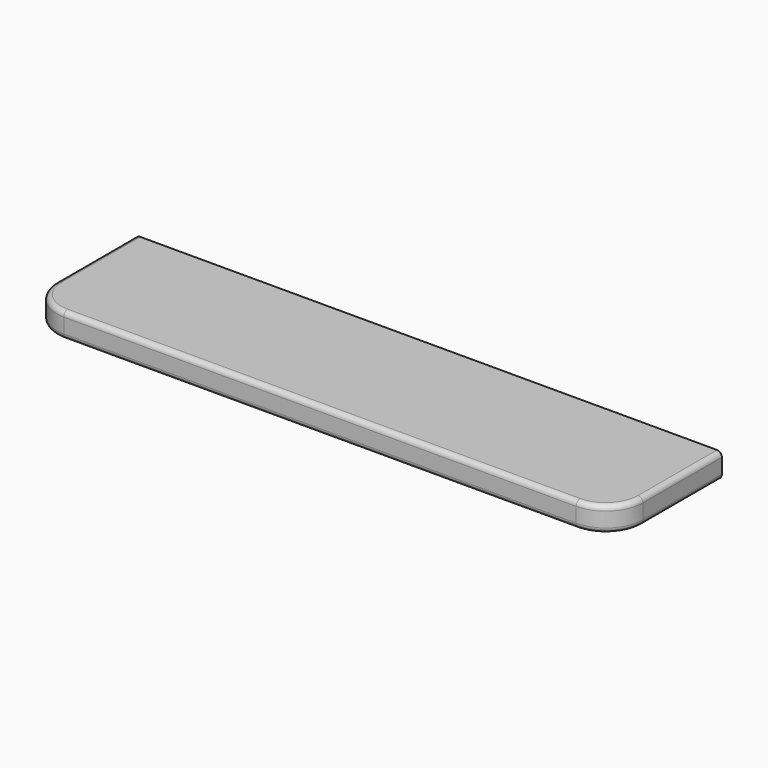
from build123d import *

# Parameters (mm, degrees)
F1_DEPTH = 25.4
F2_R     = 5.08
F3_R     = 5.08


with BuildPart() as f1:
    # F0 (on Top) → F1 (new body)
    with BuildSketch(Plane.XY):
        with BuildLine():
            Line((301.625, -31.75), (301.625, 69.85))
            Line((301.625, 69.85), (-301.625, 69.85))
            Line((-301.625, 69.85), (-301.625, -31.75))
            ThreePointArc((-301.625, -31.75), (-290.465768, -58.690768), (-263.525, -69.85))
            Line((-263.525, -69.85), (263.525, -69.85))
            ThreePointArc((263.525, -69.85), (290.465768, -58.690768), (301.625, -31.75))
        make_face()
    extrude(amount=F1_DEPTH)

    # F2
    f2_edges = [f1.edges().sort_by_distance(p)[0] for p in [
        (0, -69.85, 25.4),
        (301.625, 19.05, 25.4),
        (-290.465768, -58.690768, 25.4),
        (-301.625, 19.05, 25.4),
        (290.465768, -58.690768, 25.4),
    ]]
    fillet(f2_edges, radius=F2_R)

    # F3
    f3_edges = [f1.edges().sort_by_distance(p)[0] for p in [
        (-301.625, 19.05, 0),
        (-290.465768, -58.690768, 0),
        (0, -69.85, 0),
        (290.465768, -58.690768, 0),
        (301.625, 19.05, 0),
    ]]
    fillet(f3_edges, radius=F3_R)


solid = f1.part
